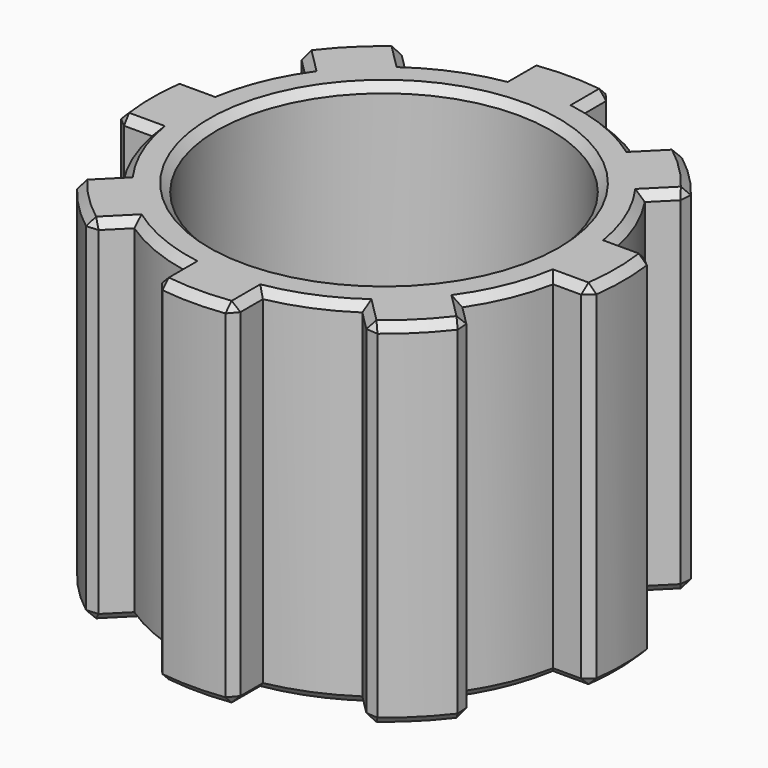
from build123d import *

# Parameters (mm, degrees)
PAD010_DEPTH    = 9
ARRAY001_COUNT  = 8
SKETCH014_R     = 5.2
SKETCH014_R_2   = 4.25
PAD009_DEPTH    = 9
SKETCH017_R     = 4.5
POCKET005_DEPTH = 2
CHAMFER004_SIZE = 0.2


with BuildPart() as array001:
    # Sketch015 → Pad010 (new body)
    with BuildSketch(Plane.XY):
        with BuildLine():
            Line((1, 6.0174745533), (1, 4.7674745533))
            Line((1, 4.7674745533), (-1, 4.7674745533))
            Line((-1, 4.7674745533), (-1, 6.0174745533))
            ThreePointArc((1, 6.0174745533), (0, 6.1), (-1, 6.0174745533))
        make_face()
    extrude(amount=PAD010_DEPTH)


with BuildPart() as array001_1:
    # Body005 placement: moved
    add(array001.part.moved(Location((0, 0, -3))))

    # Array001: Array001 ×8 about axis
    array001_axis = Axis((0, 0, 0), (0, 0, 1))


with BuildPart() as array001_2:
    add(array001_1.part)
    for i in range(1, ARRAY001_COUNT):
        add(array001_1.part.rotate(array001_axis, i * 360 / ARRAY001_COUNT))


with BuildPart() as chamfer004:
    # Sketch014 → Pad009 (new body)
    with BuildSketch(Plane.XY):
        Circle(SKETCH014_R)
        Circle(SKETCH014_R_2, mode=Mode.SUBTRACT)
    extrude(amount=PAD009_DEPTH)

    # Sketch017 (on Face3 of Pad009) → Pocket005 (cut)
    with BuildSketch(Plane(origin=(0, 0, 0), x_dir=(1, 0, 0), z_dir=(0, 0, -1))):
        Circle(SKETCH017_R)
    extrude(amount=-POCKET005_DEPTH, mode=Mode.SUBTRACT)


with BuildPart() as chamfer004_1:
    # Body004 placement: moved
    add(chamfer004.part.moved(Location((0, 0, -3))))

    # Fusion: union Array001
    add(array001_2.part)

    # Chamfer004
    chamfer004_edges = [chamfer004_1.edges().sort_by_distance(p)[0] for p in [
        (1.989954, 4.804174, -3),
        (1.989954, 4.804174, 6),
        (1, 5.560207, -3),
        (1, 5.560207, 6),
        (1, 6.017475, 1.5),
        (3.224554, 4.638767, -3),
        (3.54789, 4.962104, 1.5),
        (3.224554, 4.638767, 6),
        (-1, 6.017475, 1.5),
        (0, 6.1, -3),
        (0, 6.1, 6),
        (-1.989954, 4.804174, -3),
        (-1.989954, 4.804174, 6),
        (-3.224554, 4.638767, -3),
        (-3.224554, 4.638767, 6),
        (-3.54789, 4.962104, 1.5),
        (-1, 5.560207, -3),
        (-1, 5.560207, 6),
        (-4.962104, 3.54789, 1.5),
        (-4.313351, 4.313351, -3),
        (-4.313351, 4.313351, 6),
        (-4.804174, 1.989954, -3),
        (-4.804174, 1.989954, 6),
        (-5.560207, 1, -3),
        (-5.560207, 1, 6),
        (-6.017475, 1, 1.5),
        (-4.638767, 3.224554, -3),
        (-4.638767, 3.224554, 6),
        (-6.017475, -1, 1.5),
        (-6.1, 0, -3),
        (-6.1, 0, 6),
        (-4.804174, -1.989954, 6),
        (-4.804174, -1.989954, -3),
        (-4.638767, -3.224554, -3),
        (-4.638767, -3.224554, 6),
        (-4.962104, -3.54789, 1.5),
        (-5.560207, -1, -3),
        (-5.560207, -1, 6),
        (-3.54789, -4.962104, 1.5),
        (-4.313351, -4.313351, -3),
        (-4.313351, -4.313351, 6),
        (-1.989954, -4.804174, 6),
        (-1.989954, -4.804174, -3),
        (-1, -5.560207, -3),
        (-1, -5.560207, 6),
        (-1, -6.017475, 1.5),
        (-3.224554, -4.638767, -3),
        (-3.224554, -4.638767, 6),
        (1, -6.017475, 1.5),
        (0, -6.1, -3),
        (0, -6.1, 6),
        (1.989954, -4.804174, 6),
        (1.989954, -4.804174, -3),
        (3.224554, -4.638767, -3),
        (3.224554, -4.638767, 6),
        (3.54789, -4.962104, 1.5),
        (1, -5.560207, -3),
        (1, -5.560207, 6),
        (4.962104, -3.54789, 1.5),
        (4.313351, -4.313351, -3),
        (4.313351, -4.313351, 6),
        (5.560207, -1, -3),
        (5.560207, -1, 6),
        (6.017475, -1, 1.5),
        (6.017475, 1, 1.5),
        (6.1, 0, -3),
        (6.1, 0, 6),
        (5.560207, 1, -3),
        (5.560207, 1, 6),
        (4.804174, -1.989954, 6),
        (4.804174, -1.989954, -3),
        (4.804174, 1.989954, -3),
        (4.804174, 1.989954, 6),
        (4.638767, -3.224554, -3),
        (4.638767, -3.224554, 6),
        (4.638767, 3.224554, -3),
        (4.638767, 3.224554, 6),
        (4.962104, 3.54789, 1.5),
        (4.313351, 4.313351, -3),
        (4.313351, 4.313351, 6),
        (-4.5, 0, -3),
        (-4.25, 0, -1),
        (-4.25, 0, 6),
    ]]
    chamfer(chamfer004_edges, length=CHAMFER004_SIZE)


with BuildPart() as chamfer004_2:
    # Chamfer004 placement: moved
    add(chamfer004_1.part.moved(Location((0, 0, 0.5))))


solid = chamfer004_2.part
